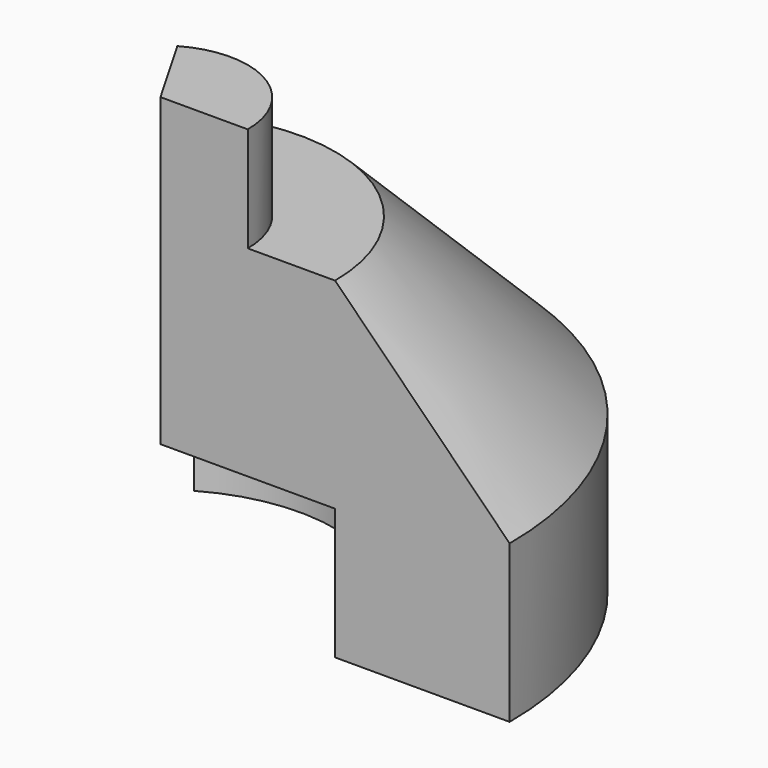
from build123d import *

# Parameters (mm, degrees)
F1_ANGLE = 120


with BuildPart() as f1:
    # F0 (on Front) → F1 (revolve)
    with BuildSketch(Plane.XZ):
        Polygon((20, 15), (20, 0), (40, 0), (40, 18), (20, 38), (10, 38), (10, 50), (0, 50), (0, 15), align=None)
    revolve(axis=Axis((0, 0, 55.999996), (0, 0, 1)), revolution_arc=F1_ANGLE)


solid = f1.part
